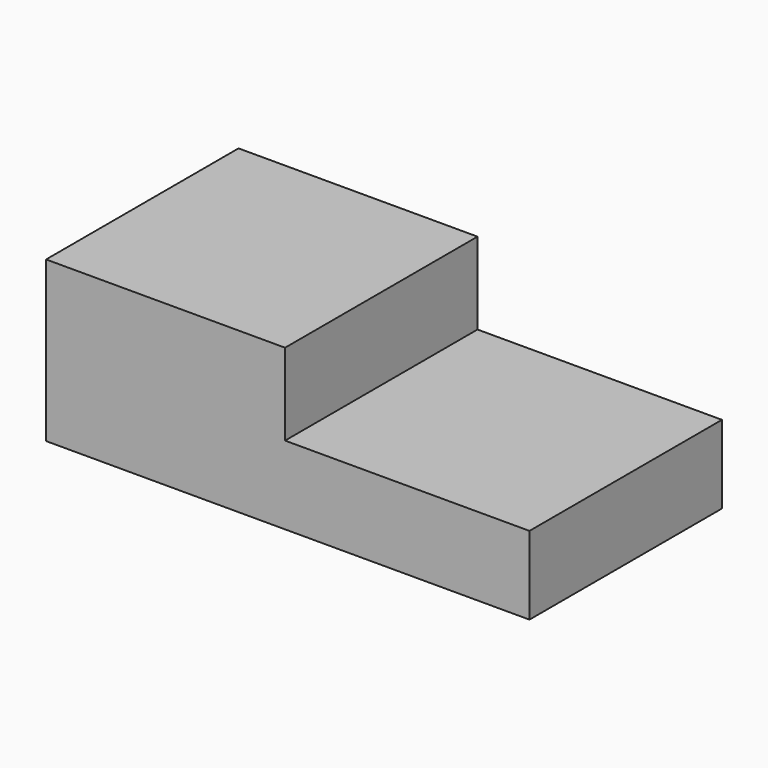
from build123d import *

# Parameters (mm, degrees)
F0_W     = 76.2685239315
F0_H     = 25.6147123873
F1_DEPTH = 76.2
F3_W     = 153.1126648188
F3_H     = 50.6538152695
F4_DEPTH = 76.2
F5_W     = 77.4197503924
F5_H     = 25.9025208652
F6_DEPTH = 76.2


with BuildPart() as f1:
    # F0 (on Front) → F1 (new body)
    with BuildSketch(Plane.XZ):
        with Locations((38.1342619658, 12.8073561937)):
            Rectangle(F0_W, F0_H)
    extrude(amount=F1_DEPTH)


with BuildPart() as f4:
    # F3 (on Front) → F4 (new body)
    with BuildSketch(Plane.XZ):
        with Locations((0.8634179831, 25.3269076347)):
            Rectangle(F3_W, F3_H)
    extrude(amount=-F4_DEPTH)

    # F5 (on face) → F6 (cut, through all)
    with BuildSketch(Plane.XZ):
        with Locations((38.7098751962, 37.7025548369)):
            Rectangle(F5_W, F5_H)
    extrude(amount=-F6_DEPTH, mode=Mode.SUBTRACT)


solid = f4.part
